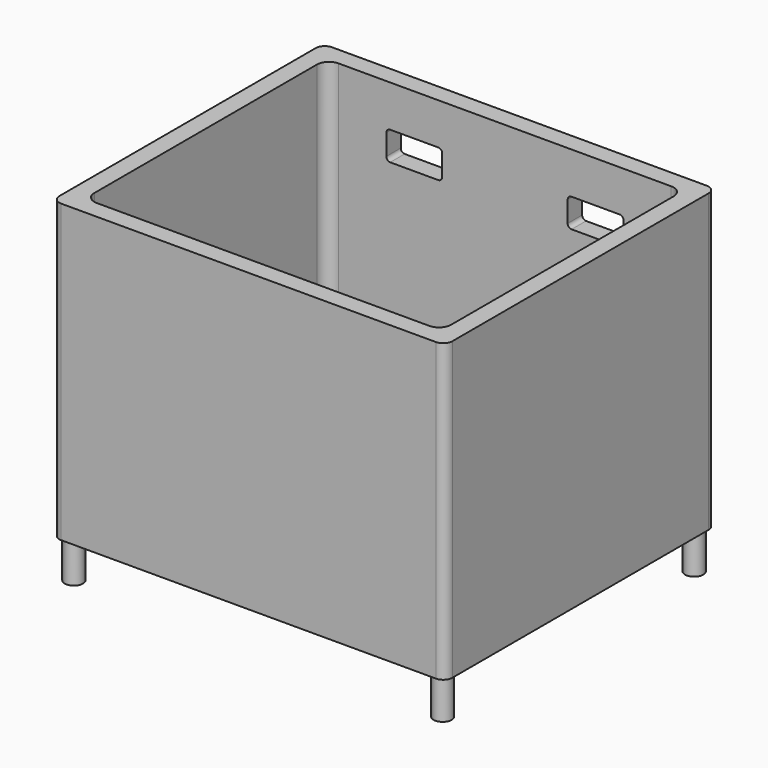
from build123d import *

# Parameters (mm, degrees)
SKETCH005_W     = 13
SKETCH005_H     = 11.2
SKETCH005_W_2   = 11.8
SKETCH005_H_2   = 10
PAD003_DEPTH    = 9.8
FILLET005_R     = 0.3
FILLET006_R     = 0.4
SKETCH006_W     = 1.85
SKETCH006_H     = 0.95
POCKET002_DEPTH = 0.6
FILLET007_R     = 0.13
SKETCH007_R     = 0.3
PAD004_DEPTH    = 1.3


with BuildPart() as part:
    # Sketch005 → Pad003 (new body)
    with BuildSketch(Plane.XY):
        with Locations((0, -1.6)):
            Rectangle(SKETCH005_W, SKETCH005_H)
        with Locations((0, -1.6)):
            Rectangle(SKETCH005_W_2, SKETCH005_H_2, mode=Mode.SUBTRACT)
    extrude(amount=PAD003_DEPTH)

    # Fillet005
    fillet005_edges = [part.edges().sort_by_distance(p)[0] for p in [
        (-6.5, 4, 4.9),
        (-6.5, -7.2, 4.9),
        (6.5, -7.2, 4.9),
        (6.5, 4, 4.9),
    ]]
    fillet(fillet005_edges, radius=FILLET005_R)

    # Fillet006
    fillet006_edges = [part.edges().sort_by_distance(p)[0] for p in [
        (-5.9, -6.6, 4.9),
        (-5.9, 3.4, 4.9),
        (5.9, -6.6, 4.9),
        (5.9, 3.4, 4.9),
    ]]
    fillet(fillet006_edges, radius=FILLET006_R)

    # Sketch006 (on Face10 of Fillet006) → Pocket002 (cut)
    with BuildSketch(Plane(origin=(0, 4, 0), x_dir=(-1, 0, 0), z_dir=(0, 1, 0))):
        with Locations((-3, 7.95)):
            Rectangle(SKETCH006_W, SKETCH006_H)
    pocket002 = extrude(amount=-POCKET002_DEPTH, mode=Mode.SUBTRACT)

    # Mirrored001: Pocket002 across Sketch006 V_Axis
    add(pocket002.mirror(Plane(origin=(0, 4, 0), x_dir=(0, 1, 0), z_dir=(-1, 0, 0))), mode=Mode.SUBTRACT)

    # Fillet007
    fillet007_edges = [part.edges().sort_by_distance(p)[0] for p in [
        (2.075, 3.7, 8.425),
        (2.075, 3.7, 7.475),
        (-3.925, 3.7, 7.475),
        (-3.925, 3.7, 8.425),
        (-2.075, 3.7, 8.425),
        (-2.075, 3.7, 7.475),
        (3.925, 3.7, 7.475),
        (3.925, 3.7, 8.425),
    ]]
    fillet(fillet007_edges, radius=FILLET007_R)

    # Sketch007 (on Face10 of Fillet007) → Pad004 (join)
    with BuildSketch(Plane(origin=(0, 0, 0), x_dir=(1, 0, 0), z_dir=(0, 0, -1))):
        with Locations((-6.1, 6.8)):
            Circle(SKETCH007_R)
        with Locations((6.1, 6.8)):
            Circle(SKETCH007_R)
        with Locations((-6.1, -3.6)):
            Circle(SKETCH007_R)
        with Locations((6.1, -3.6)):
            Circle(SKETCH007_R)
    extrude(amount=PAD004_DEPTH)


solid = part.part
